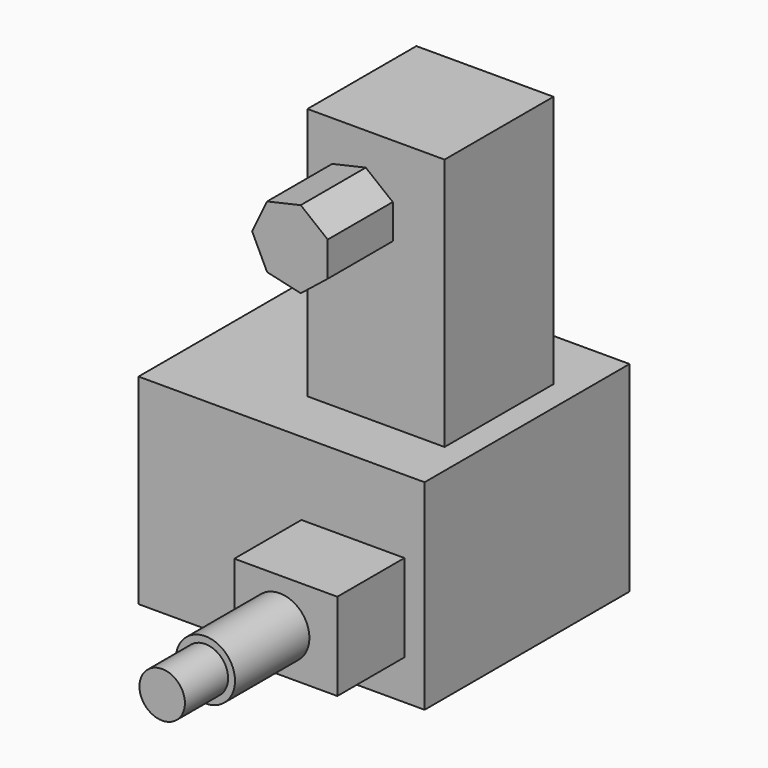
from build123d import *

# Parameters (mm, degrees)
F0_W      = 111.730128
F0_H      = 100.016385
F1_DEPTH  = 78.232
F2_W      = 40.233598
F2_H      = 34.137598
F3_DEPTH  = 32.766
F4_R      = 11.566348
F5_DEPTH  = 36.322
F6_R      = 8.876558
F7_DEPTH  = 21.082
F8_W      = 53.551454
F8_H      = 53.157688
F9_DEPTH  = 38.862
F9_FACE_W = 53.551454
F9_FACE_H = 53.157688
F10_DEPTH = 59.944
F12_DEPTH = 31.75


with BuildPart() as f1:
    # F0 (on Top) → F1 (new body)
    with BuildSketch(Plane.XY):
        with Locations((-0.595264, 16.872793)):
            Rectangle(F0_W, F0_H)
    extrude(amount=F1_DEPTH)

    # F2 (on face) → F3 (join)
    with BuildSketch(Plane.XZ.offset(33.135399)):
        with Locations((27.2796, 32.562797)):
            Rectangle(F2_W, F2_H)
    extrude(amount=F3_DEPTH)

    # F4 (on face) → F5 (join)
    with BuildSketch(Plane.XZ.offset(65.901399)):
        with Locations((24.922676, 31.953197)):
            Circle(F4_R)
    extrude(amount=F5_DEPTH)

    # F6 (on face) → F7 (join)
    with BuildSketch(Plane.XZ.offset(102.223399)):
        with Locations((24.922676, 31.953197)):
            Circle(F6_R)
    extrude(amount=F7_DEPTH)

    # F8 (on face) → F9 (join)
    with BuildSketch(Plane.XY.offset(78.232)):
        with Locations((18.703634, 15.429604)):
            Rectangle(F8_W, F8_H)
    extrude(amount=F9_DEPTH)

    # F9_face (on face) → F10 (join)
    with BuildSketch(Plane(origin=(18.703634, 15.429604, 117.094), x_dir=(1, 0, 0), z_dir=(0, 0, 1))):
        Rectangle(F9_FACE_W, F9_FACE_H)
    extrude(amount=F10_DEPTH)

    # F11 (on face) → F12 (join)
    with BuildSketch(Plane.XZ.offset(11.14924)):
        Polygon((25.2405, 142.392326), (25.2405, 155.871343), (14.70218, 164.275372), (1.561111, 161.276009), (-4.287215, 149.131835), (1.561111, 136.98766), (14.70218, 133.988297), align=None)
    extrude(amount=F12_DEPTH)


solid = f1.part
